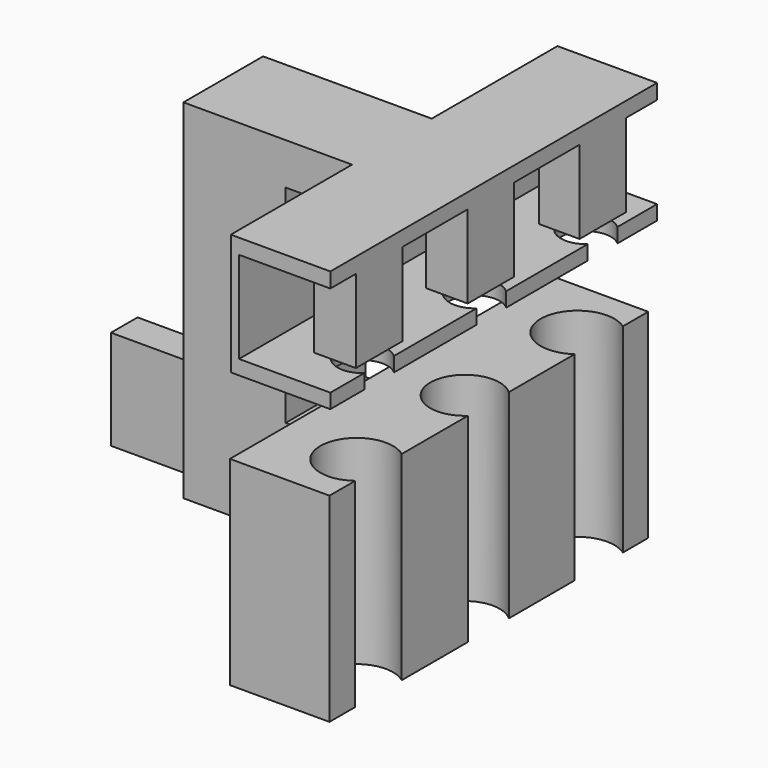
from build123d import *

# Parameters (mm, degrees)
F0_W      = 6
F0_H      = 2
F1_DEPTH  = 6
F2_W      = 6
F2_H      = 6
F3_DEPTH  = 10
F4_W      = 24
F4_H      = 12
F5_DEPTH  = 6
F7_DEPTH  = 12.001
F8_W      = 6.1598163333
F8_H      = 6
F9_DEPTH  = 15
F10_W     = 6
F10_H     = 2.5150536597
F11_DEPTH = 4
F12_W     = 24.6021291241
F12_H     = 7.3056968898
F13_DEPTH = 6
F14_W     = 5.5018218607
F14_H     = 5.5230222642
F15_DEPTH = 24.6031291241
F16_R     = 1.5
F17_DEPTH = 1
F18_W     = 2.4501711503
F18_H     = 3.5
F18_W_2   = 2.5247114152
F18_W_3   = 2.5247123465
F19_DEPTH = 5


with BuildPart() as f1:
    # F0 (on Top) → F1 (new body)
    with BuildSketch(Plane.XY):
        with Locations((-32.0476180848, -1)):
            Rectangle(F0_W, F0_H)
    extrude(amount=F1_DEPTH)

    # F2 (on face) → F3 (join)
    with BuildSketch(Plane.YZ.offset(-29.0476180848)):
        with Locations((-1.0433437443, 3)):
            Rectangle(F2_W, F2_H)
    extrude(amount=F3_DEPTH)

    # F4 (on face) → F5 (join)
    with BuildSketch(Plane.YZ.offset(-19.0476180848)):
        with Locations((-1.0433437443, 3)):
            Rectangle(F4_W, F4_H)
    extrude(amount=F5_DEPTH)

    # F6 (on face) → F7 (cut, through all)
    with BuildSketch(Plane.XY.offset(9)):
        with BuildLine():
            Line((-13.0476180848, -11.1071496376), (-13.0476180848, -7.6019221608))
            ThreePointArc((-13.0476180848, -7.6019221608), (-16.5476180848, -9.3545358992), (-13.0476180848, -11.1071496376))
        make_face()
        with BuildLine():
            ThreePointArc((-13.0476180848, 0.4656811595), (-16.5476180848, -1.0765416363), (-13.0476180848, -2.618764432))
            Line((-13.0476180848, -2.618764432), (-13.0476180848, 0.4656811595))
        make_face()
        with BuildLine():
            ThreePointArc((-13.0476180848, 9.0525666852), (-16.5476180848, 7.234418936), (-13.0476180848, 5.4162711868))
            Line((-13.0476180848, 5.4162711868), (-13.0476180848, 9.0525666852))
        make_face()
    extrude(amount=-F7_DEPTH, mode=Mode.SUBTRACT)

    # F8 (on face) → F9 (join)
    with BuildSketch(Plane.XY.offset(6)):
        with Locations((-25.9677099181, -1.0433437443)):
            Rectangle(F8_W, F8_H)
    extrude(amount=F9_DEPTH)

    # F10 (on face) → F11 (join)
    with BuildSketch(Plane.YZ.offset(-22.8878017515)):
        with Locations((-1.0433437443, 19.7424731702)):
            Rectangle(F10_W, F10_H)
    extrude(amount=F11_DEPTH)

    # F12 (on face) → F13 (join)
    with BuildSketch(Plane.YZ.offset(-18.8878017515)):
        with Locations((-0.8769654669, 17.3471515551)):
            Rectangle(F12_W, F12_H)
    extrude(amount=F13_DEPTH)

    # F14 (on face) → F15 (cut, through all)
    with BuildSketch(Plane(origin=(0, 11.4240990952, 0), x_dir=(-1, 0, 0), z_dir=(0, 1, 0))):
        with Locations((15.6387126818, 17.3303969204)):
            Rectangle(F14_W, F14_H)
    extrude(amount=-F15_DEPTH, mode=Mode.SUBTRACT)

    # F16 (on face) → F17 (cut)
    with BuildSketch(Plane.XY.offset(14.5688857883)):
        with Locations((-13.8878017515, -9.5042175321)):
            Circle(F16_R)
        with Locations((-13.8878017515, -1.0522056698)):
            Circle(F16_R)
        with Locations((-13.8878017515, 7.322568293)):
            Circle(F16_R)
    extrude(amount=-F17_DEPTH, mode=Mode.SUBTRACT)

    # F18 (on face) → F19 (join)
    with BuildSketch(Plane(origin=(0, 0, 20.0919080526), x_dir=(1, 0, 0), z_dir=(0, 0, -1))):
        with Locations((-14.1128873266, -7.338691324)):
            Rectangle(F18_W, F18_H)
        with Locations((-14.1501574591, 1.0843175156)):
            Rectangle(F18_W_2, F18_H)
        with Locations((-14.1501579247, 9.5073256567)):
            Rectangle(F18_W_3, F18_H)
    extrude(amount=F19_DEPTH)


solid = f1.part
